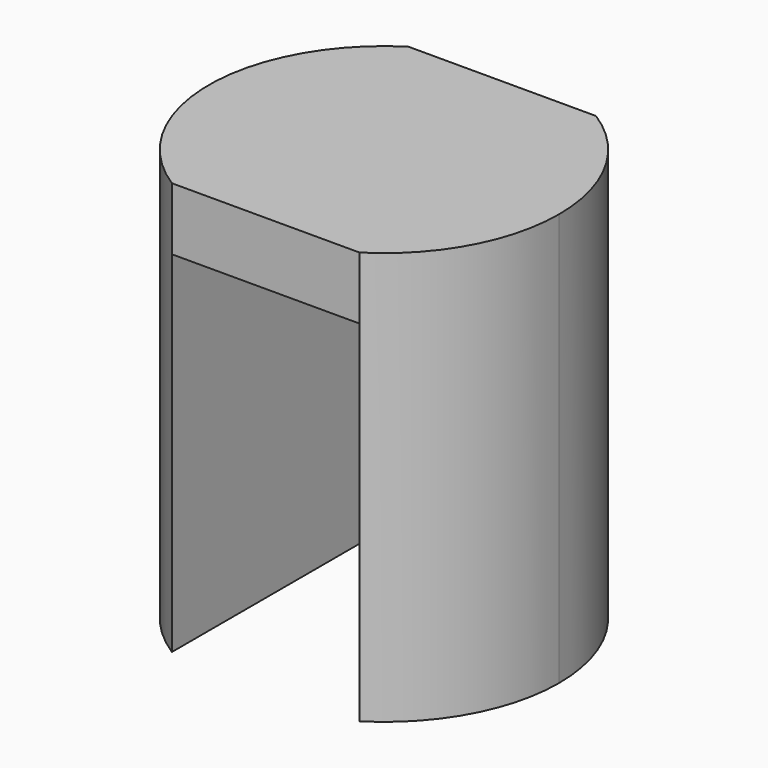
from build123d import *

# Parameters (mm, degrees)
F1_DEPTH = 5
F2_DEPTH = 28


with BuildPart() as f1:
    # F0 (on Top) → F1 (new body)
    with BuildSketch(Plane.XY):
        with BuildLine():
            Line((-7.5, 0), (-7.5, 11.82159))
            ThreePointArc((-7.5, 11.82159), (-14, 0), (-7.5, -11.82159))
            Line((-7.5, -11.82159), (-7.5, 0))
        make_face()
        with BuildLine():
            Line((-7.5, -11.82159), (7.5, -11.82159))
            Line((7.5, -11.82159), (7.5, 0))
            Line((7.5, 0), (5, 0))
            ThreePointArc((5, 0), (0, -5), (-5, 0))
            Line((-5, 0), (-7.5, 0))
            Line((-7.5, 0), (-7.5, -11.82159))
        make_face()
        with BuildLine():
            Line((7.5, 0), (7.5, 11.82159))
            Line((7.5, 11.82159), (-7.5, 11.82159))
            Line((-7.5, 11.82159), (-7.5, 0))
            Line((-7.5, 0), (-5, 0))
            ThreePointArc((-5, 0), (0, 5), (5, 0))
            Line((5, 0), (7.5, 0))
        make_face()
        with BuildLine():
            ThreePointArc((7.5, -11.82159), (12.267844, -6.745369), (14, 0))
            ThreePointArc((14, 0), (12.267844, 6.745369), (7.5, 11.82159))
            Line((7.5, 11.82159), (7.5, 0))
            Line((7.5, 0), (7.5, -11.82159))
        make_face()
        with BuildLine():
            Line((0, 0), (5, 0))
            ThreePointArc((5, 0), (0, 5), (-5, 0))
            Line((-5, 0), (0, 0))
        make_face()
        with BuildLine():
            ThreePointArc((-5, 0), (0, -5), (5, 0))
            Line((5, 0), (0, 0))
            Line((0, 0), (-5, 0))
        make_face()
    extrude(amount=F1_DEPTH)

    # F0 (on Top) → F2 (join)
    with BuildSketch(Plane.XY):
        with BuildLine():
            Line((-7.5, 0), (-7.5, 11.82159))
            ThreePointArc((-7.5, 11.82159), (-14, 0), (-7.5, -11.82159))
            Line((-7.5, -11.82159), (-7.5, 0))
        make_face()
        with BuildLine():
            ThreePointArc((7.5, -11.82159), (12.267844, -6.745369), (14, 0))
            ThreePointArc((14, 0), (12.267844, 6.745369), (7.5, 11.82159))
            Line((7.5, 11.82159), (7.5, 0))
            Line((7.5, 0), (7.5, -11.82159))
        make_face()
    extrude(amount=-F2_DEPTH)


solid = f1.part
